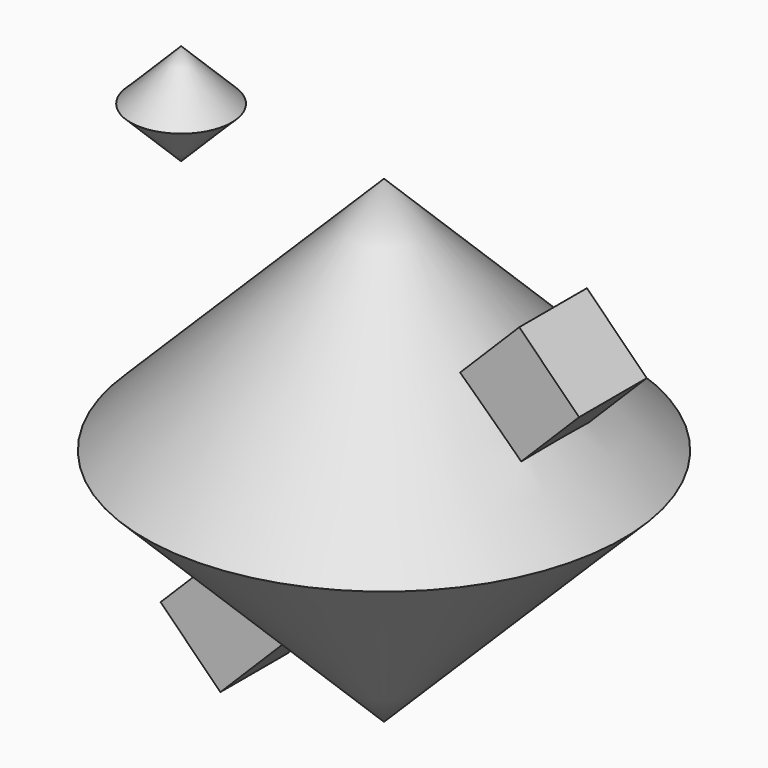
from build123d import *

# Parameters (mm, degrees)
F5_DEPTH = 12.5


with BuildPart() as f1:
    # F0 (on Front) → F1 (revolve)
    with BuildSketch(Plane.XZ):
        Polygon((0, -70.7106781187), (0, 70.7106781187), (-70.7106781187, 0), align=None)
    revolve(axis=Axis((0, 0, -1.1759153851), (0, 0, -1)))

    # F4 (on Front) → F5 (join, symmetric)
    with BuildSketch(Plane.XZ):
        Polygon((67.6776695297, 35.7106781187), (50, 53.3883476483), (-56.066017178, -52.6776695297), (-38.3883476483, -70.3553390593), align=None)
    extrude(amount=F5_DEPTH, both=True)


with BuildPart() as f3:
    # F2 (on Front) → F3 (revolve)
    with BuildSketch(Plane.XZ):
        Polygon((-60, 55.7106781187), (-45, 70.7106781187), (-60, 85.7106781187), align=None)
    revolve(axis=Axis((-60, 0, 69.1770929843), (0, 0, 1)))


solid = Compound([f1.part, f3.part])
